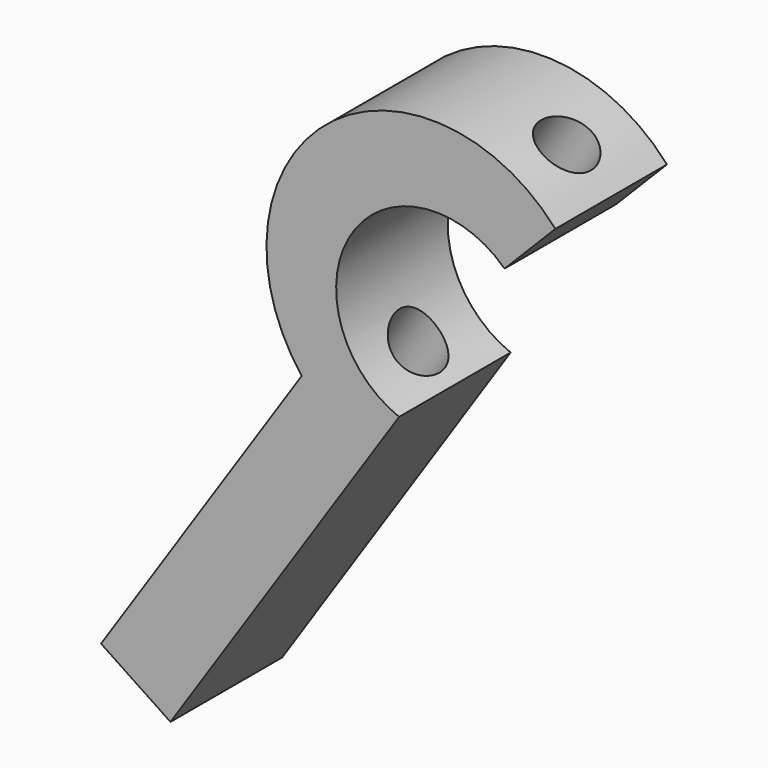
from build123d import *

# Parameters (mm, degrees)
F1_DEPTH = 20
F2_R     = 4.088614
F3_DEPTH = 103.965068


with BuildPart() as f1:
    # F0 (on Front) → F1 (new body)
    with BuildSketch(Plane.XZ):
        with BuildLine():
            ThreePointArc((25.32969, 60.587259), (-7.590646, 63.03803), (-11.045604, 30.20789))
            Line((-11.045604, 30.20789), (-39.826058, -12.96279))
            Line((-39.826058, -12.96279), (-29.863593, -19.604434))
            Line((-29.863593, -19.604434), (2.913904, 29.561811))
            ThreePointArc((2.913904, 29.561811), (-3.854949, 50.550455), (18.039079, 53.194709))
            Line((18.039079, 53.194709), (25.32969, 60.587259))
        make_face()
    extrude(amount=F1_DEPTH)

    # F2 (on face) → F3 (cut, through all)
    with BuildSketch(Plane(origin=(-18.236998, 0, -27.355497), x_dir=(0.83205, 0, -0.5547), z_dir=(-0.5547, 0, -0.83205))):
        with Locations((-20.263629, 10.288857)):
            Circle(F2_R)
    extrude(amount=-F3_DEPTH, mode=Mode.SUBTRACT)


solid = f1.part
